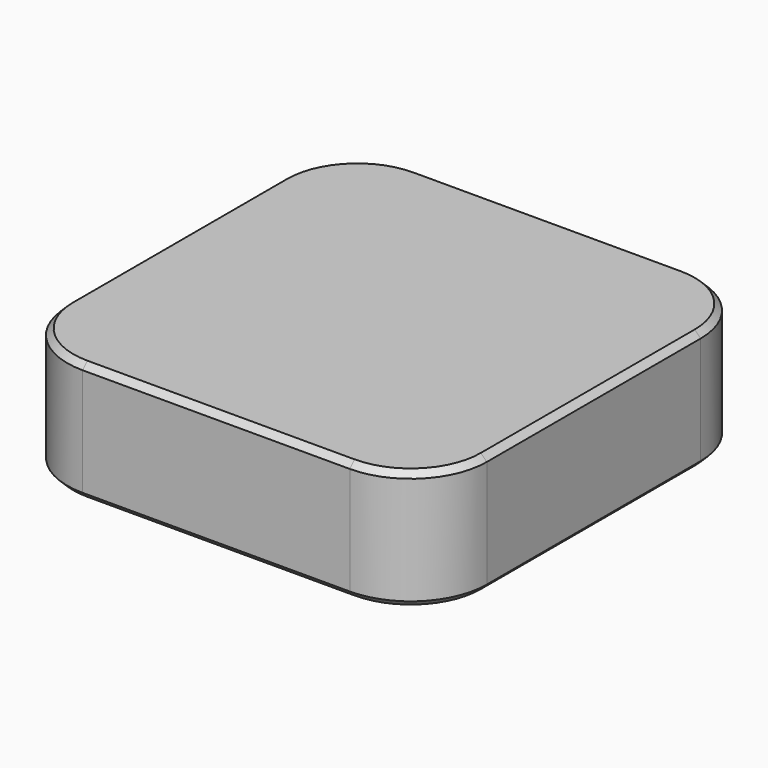
from build123d import *

# Parameters (mm, degrees)
F0_W     = 70
F0_H     = 70
F1_DEPTH = 20
F2_R     = 12.7
F3_R     = 26
F3_R_2   = 25
F4_DEPTH = 2
F5_R     = 25
F6_DEPTH = 3
F7_SIZE  = 1


with BuildPart() as f1:
    # F0 (on Top) → F1 (new body)
    with BuildSketch(Plane.XY):
        Rectangle(F0_W, F0_H)
    extrude(amount=F1_DEPTH)

    # F2
    f2_edges = [f1.edges().sort_by_distance(p)[0] for p in [
        (35, -35, 10),
        (-35, -35, 10),
        (35, 35, 10),
        (-35, 35, 10),
    ]]
    fillet(f2_edges, radius=F2_R)

    # F3 (on face) → F4 (cut)
    with BuildSketch(Plane(origin=(0, 0, 0), x_dir=(1, 0, 0), z_dir=(0, 0, -1))):
        Circle(F3_R)
        Circle(F3_R_2, mode=Mode.SUBTRACT)
        Circle(F3_R_2)
    extrude(amount=-F4_DEPTH, mode=Mode.SUBTRACT)

    # F7
    f7_edges = [f1.edges().sort_by_distance(p)[0] for p in [
        (0, -35, 20),
        (-31.280256, -31.280256, 20),
        (31.280256, -31.280256, 20),
        (-35, 0, 20),
        (35, 0, 20),
        (-31.280256, 31.280256, 20),
        (31.280256, 31.280256, 20),
        (0, 35, 20),
        (0, -35, 0),
        (-31.280256, -31.280256, 0),
        (31.280256, -31.280256, 0),
        (-35, 0, 0),
        (35, 0, 0),
        (-31.280256, 31.280256, 0),
        (31.280256, 31.280256, 0),
        (0, 35, 0),
        (-26, 0, 0),
    ]]
    chamfer(f7_edges, length=F7_SIZE)


with BuildPart() as f6:
    # F5 (on face) → F6 (new body)
    with BuildSketch(Plane(origin=(0, 0, 2), x_dir=(1, 0, 0), z_dir=(0, 0, -1))):
        Circle(F5_R)
    extrude(amount=F6_DEPTH)


solid = Compound([f1.part, f6.part])
